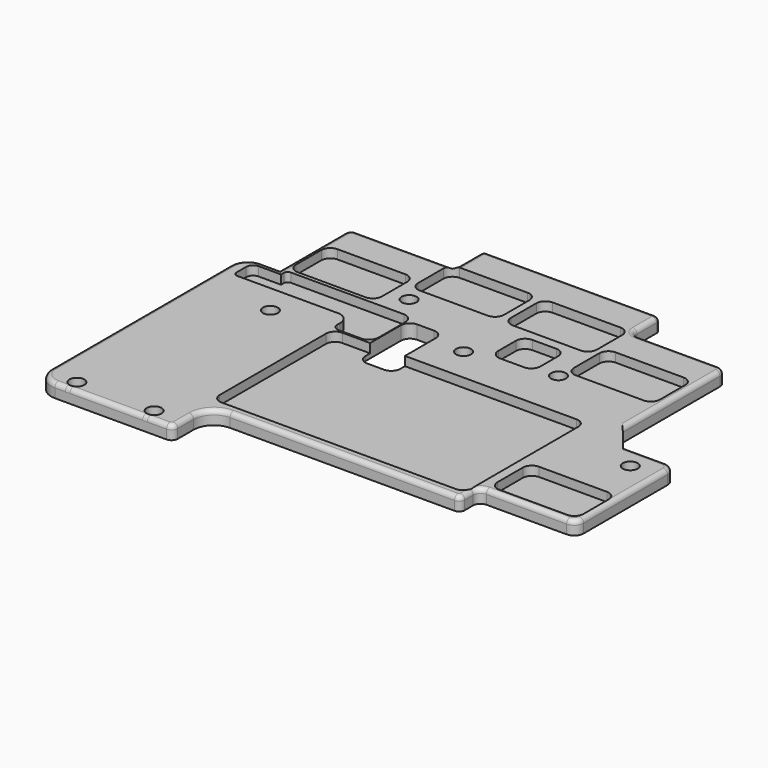
from build123d import *

# Parameters (mm, degrees)
SKETCH001_R  = 1.65
PAD_DEPTH    = 3
FILLET_R     = 1
FILLET001_R  = 1
POCKET_DEPTH = 2


with BuildPart() as part:
    # Sketch001 → Pad (new body)
    with BuildSketch(Plane.XY):
        with BuildLine():
            Line((-49.610863, 7.214963), (-49.610863, 25.112694))
            ThreePointArc((-48.178773, 26.544784), (-49.191413, 26.125334), (-49.610863, 25.112694))
            Line((-48.178773, 26.544784), (-27.808412, 26.544784))
            ThreePointArc((-27.808412, 26.544784), (-26.912185, 26.916014), (-26.540955, 27.812241))
            Line((-26.540955, 27.812241), (-26.540955, 33.93028))
            ThreePointArc((-25.87702, 34.594215), (-26.346493, 34.399753), (-26.540955, 33.93028))
            Line((-25.87702, 34.594215), (11.597837, 34.594215))
            ThreePointArc((12.512121, 33.679931), (12.244333, 34.326427), (11.597837, 34.594215))
            Line((12.512121, 33.679931), (12.512121, 28.263099))
            ThreePointArc((12.512121, 28.263099), (13.049695, 26.96528), (14.347514, 26.427706))
            Line((14.347514, 26.427706), (32.003551, 26.427706))
            ThreePointArc((33.520552, 24.910705), (33.076233, 25.983387), (32.003551, 26.427706))
            Line((33.520552, 24.910705), (33.520552, -1.974196))
            Line((33.520552, -1.974196), (38.002038, -7.483418))
            Line((38.002038, -7.483418), (47.421181, -7.483418))
            ThreePointArc((49.44413, -9.506367), (48.851622, -8.075926), (47.421181, -7.483418))
            Line((49.44413, -9.506367), (49.44413, -32.682031))
            ThreePointArc((47.368229, -34.757932), (48.836113, -34.149915), (49.44413, -32.682031))
            Line((47.368229, -34.757932), (29.60701, -34.757932))
            ThreePointArc((29.60701, -34.757932), (28.471435, -35.228303), (28.001064, -36.363878))
            Line((28.001064, -36.363878), (28.001064, -38.722614))
            ThreePointArc((26.753087, -39.970591), (27.63554, -39.605067), (28.001064, -38.722614))
            Line((26.753087, -39.970591), (-22.857236, -39.970591))
            ThreePointArc((-22.857236, -39.970591), (-26.03119, -41.285286), (-27.345885, -44.45924))
            Line((-27.345885, -44.45924), (-27.345885, -48.820324))
            ThreePointArc((-28.718373, -50.192812), (-27.747877, -49.79082), (-27.345885, -48.820324))
            Line((-28.718373, -50.192812), (-53.401439, -50.192812))
            ThreePointArc((-57.461259, -46.132992), (-56.272165, -49.003718), (-53.401439, -50.192812))
            Line((-57.461259, -46.132992), (-57.461259, 3.345083))
            ThreePointArc((-53.591379, 7.214963), (-56.327797, 6.081501), (-57.461259, 3.345083))
            Line((-53.591379, 7.214963), (-49.610863, 7.214963))
        make_face()
        with Locations((-41.28775, -5.80713)):
            Circle(SKETCH001_R, mode=Mode.SUBTRACT)
        with Locations((-33.495979, -47.631935)):
            Circle(SKETCH001_R, mode=Mode.SUBTRACT)
        with Locations((-50.583614, -47.630238)):
            Circle(SKETCH001_R, mode=Mode.SUBTRACT)
        with Locations((-25.119429, 12.315305)):
            Circle(SKETCH001_R, mode=Mode.SUBTRACT)
        with Locations((-5.602204, 2.953984)):
            Circle(SKETCH001_R, mode=Mode.SUBTRACT)
        with Locations((12.850342, 6.121297)):
            Circle(SKETCH001_R, mode=Mode.SUBTRACT)
        with Locations((43.548248, -12.411167)):
            Circle(SKETCH001_R, mode=Mode.SUBTRACT)
        with BuildLine():
            Line((-20.196713, 3.911513), (-20.196713, -5.879936))
            ThreePointArc((-20.196713, -5.879936), (-19.610927, -7.29415), (-18.196713, -7.879936))
            Line((-18.196713, -7.879936), (-14.502968, -7.879936))
            ThreePointArc((-14.502968, -7.879936), (-13.088754, -7.29415), (-12.502968, -5.879936))
            Line((-12.502968, -5.879936), (-12.502968, 3.911513))
            ThreePointArc((-12.502968, 3.911513), (-13.088754, 5.325727), (-14.502968, 5.911513))
            Line((-14.502968, 5.911513), (-18.196713, 5.911513))
            ThreePointArc((-18.196713, 5.911513), (-19.610927, 5.325727), (-20.196713, 3.911513))
        make_face(mode=Mode.SUBTRACT)
    extrude(amount=PAD_DEPTH)

    # Fillet
    fillet_edges = [part.edges().sort_by_distance(p)[0] for p in [
        (1.947926, -39.970591, 3),
    ]]
    fillet(fillet_edges, radius=FILLET_R)

    # Fillet001
    fillet001_edges = [part.edges().sort_by_distance(p)[0] for p in [
        (-7.139592, 34.594215, 3),
    ]]
    fillet(fillet001_edges, radius=FILLET001_R)

    # Sketch002 (on Face3 of Fillet001) → Pocket (cut)
    with BuildSketch(Plane.XY.offset(3)):
        with BuildLine():
            Line((-28.353016, -6.603414), (-28.353016, -35.961915))
            ThreePointArc((-28.353016, -35.961915), (-27.76723, -37.376128), (-26.353016, -37.961915))
            Line((-26.353016, -37.961915), (25.400848, -37.961915))
            ThreePointArc((25.400848, -37.961915), (26.815062, -37.376128), (27.400848, -35.961915))
            Line((27.400848, -35.961915), (27.400848, -6.603414))
            ThreePointArc((27.400848, -6.603414), (26.815062, -5.1892), (25.400848, -4.603414))
            Line((25.400848, -4.603414), (-26.353016, -4.603414))
            ThreePointArc((-26.353016, -4.603414), (-27.76723, -5.1892), (-28.353016, -6.603414))
        make_face()
        with BuildLine():
            Line((0.906134, 4.920508), (6.211625, 4.920508))
            ThreePointArc((6.211625, 4.920508), (7.625839, 5.506294), (8.211625, 6.920508))
            Line((8.211625, 6.920508), (8.211625, 11.80934))
            ThreePointArc((8.211625, 11.80934), (7.625839, 13.223554), (6.211625, 13.80934))
            Line((6.211625, 13.80934), (0.906134, 13.80934))
            ThreePointArc((0.906134, 13.80934), (-0.50808, 13.223554), (-1.093866, 11.80934))
            Line((-1.093866, 11.80934), (-1.093866, 6.920508))
            ThreePointArc((-1.093866, 6.920508), (-0.50808, 5.506294), (0.906134, 4.920508))
        make_face()
        with BuildLine():
            Line((-25.740759, 16.073957), (-10.740759, 16.073957))
            ThreePointArc((-10.740759, 16.073957), (-9.326546, 16.659744), (-8.740759, 18.073957))
            Line((-8.740759, 18.073957), (-8.740759, 25.073957))
            ThreePointArc((-8.740759, 25.073957), (-9.326546, 26.488171), (-10.740759, 27.073957))
            Line((-10.740759, 27.073957), (-25.740759, 27.073957))
            ThreePointArc((-25.740759, 27.073957), (-27.154973, 26.488171), (-27.740759, 25.073957))
            Line((-27.740759, 25.073957), (-27.740759, 18.073957))
            ThreePointArc((-27.740759, 18.073957), (-27.154973, 16.659744), (-25.740759, 16.073957))
        make_face()
        with BuildLine():
            Line((15.06615, 8.146563), (30.06615, 8.146563))
            ThreePointArc((30.06615, 8.146563), (31.480364, 8.732349), (32.06615, 10.146563))
            Line((32.06615, 10.146563), (32.06615, 17.146563))
            ThreePointArc((32.06615, 17.146563), (31.480364, 18.560776), (30.06615, 19.146563))
            Line((30.06615, 19.146563), (15.06615, 19.146563))
            ThreePointArc((15.06615, 19.146563), (13.651937, 18.560776), (13.06615, 17.146563))
            Line((13.06615, 17.146563), (13.06615, 10.146563))
            ThreePointArc((13.06615, 10.146563), (13.651937, 8.732349), (15.06615, 8.146563))
        make_face()
        with BuildLine():
            Line((-46.494812, 8.270184), (-31.494812, 8.270184))
            ThreePointArc((-31.494812, 8.270184), (-30.080598, 8.855971), (-29.494812, 10.270184))
            Line((-29.494812, 10.270184), (-29.494812, 17.270184))
            ThreePointArc((-29.494812, 17.270184), (-30.080598, 18.684398), (-31.494812, 19.270184))
            Line((-31.494812, 19.270184), (-46.494812, 19.270184))
            ThreePointArc((-46.494812, 19.270184), (-47.909026, 18.684398), (-48.494812, 17.270184))
            Line((-48.494812, 17.270184), (-48.494812, 10.270184))
            ThreePointArc((-48.494812, 10.270184), (-47.909026, 8.855971), (-46.494812, 8.270184))
        make_face()
        with BuildLine():
            Line((31.451973, -33.485832), (46.451973, -33.485832))
            ThreePointArc((46.451973, -33.485832), (47.866187, -32.900046), (48.451973, -31.485832))
            Line((48.451973, -31.485832), (48.451973, -24.485832))
            ThreePointArc((48.451973, -24.485832), (47.866187, -23.071618), (46.451973, -22.485832))
            Line((46.451973, -22.485832), (31.451973, -22.485832))
            ThreePointArc((31.451973, -22.485832), (30.03776, -23.071618), (29.451973, -24.485832))
            Line((29.451973, -24.485832), (29.451973, -31.485832))
            ThreePointArc((29.451973, -31.485832), (30.03776, -32.900046), (31.451973, -33.485832))
        make_face()
        with BuildLine():
            Line((-5.100123, 15.922745), (9.899877, 15.922745))
            ThreePointArc((9.899877, 15.922745), (11.314091, 16.508531), (11.899877, 17.922745))
            Line((11.899877, 17.922745), (11.899877, 24.922745))
            ThreePointArc((11.899877, 24.922745), (11.314091, 26.336958), (9.899877, 26.922745))
            Line((9.899877, 26.922745), (-5.100123, 26.922745))
            ThreePointArc((-5.100123, 26.922745), (-6.514336, 26.336958), (-7.100123, 24.922745))
            Line((-7.100123, 24.922745), (-7.100123, 17.922745))
            ThreePointArc((-7.100123, 17.922745), (-6.514336, 16.508531), (-5.100123, 15.922745))
        make_face()
        with BuildLine():
            Line((-47.346162, 7.446364), (-22.404909, 7.446364))
            ThreePointArc((-20.343134, 5.384589), (-20.947014, 6.842484), (-22.404909, 7.446364))
            Line((-20.343134, 5.384589), (-20.343134, -2.072841))
            ThreePointArc((-22.495945, -4.225652), (-20.973678, -3.595108), (-20.343134, -2.072841))
            Line((-22.495945, -4.225652), (-27.450336, -4.225652))
            ThreePointArc((-28.911391, -2.764597), (-28.483458, -3.797719), (-27.450336, -4.225652))
            Line((-28.911391, -2.764597), (-28.911391, -1.969259))
            ThreePointArc((-28.911391, -1.969259), (-29.682685, -0.10719), (-31.544754, 0.664104))
            Line((-31.544754, 0.664104), (-53.694986, 0.664104))
            ThreePointArc((-54.69786, 1.666978), (-54.404125, 0.957839), (-53.694986, 0.664104))
            Line((-54.69786, 1.666978), (-54.69786, 4.276957))
            ThreePointArc((-53.16681, 5.808006), (-54.249426, 5.359572), (-54.69786, 4.276957))
            Line((-48.213859, 5.808006), (-53.16681, 5.808006))
            Line((-48.213859, 6.578667), (-48.213859, 5.808006))
            ThreePointArc((-47.346162, 7.446364), (-47.959717, 7.192221), (-48.213859, 6.578667))
        make_face()
    extrude(amount=-POCKET_DEPTH, mode=Mode.SUBTRACT)


solid = part.part
